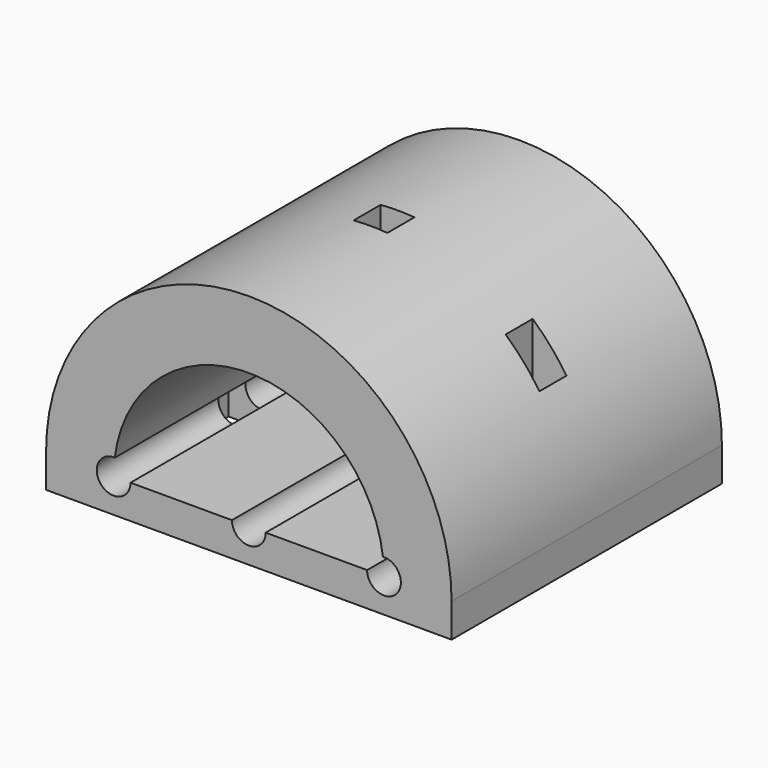
from build123d import *

# Parameters (mm, degrees)
F0_W     = 120
F0_H     = 10
F1_DEPTH = 100
F3_DEPTH = 100.001
F4_W     = 10
F4_H     = 10
F5_DEPTH = 70.001


with BuildPart() as f1:
    # F0 (on Front) → F1 (new body)
    with BuildSketch(Plane.XZ):
        with BuildLine():
            Line((-60, 0), (60, 0))
            ThreePointArc((60, 0), (0, 60), (-60, 0))
        make_face()
        with Locations((0, -5)):
            Rectangle(F0_W, F0_H)
    extrude(amount=F1_DEPTH)

    # F2 (on face) → F3 (cut, through all)
    with BuildSketch(Plane.XZ.offset(100)):
        with BuildLine():
            ThreePointArc((35, 0), (43.6443449343, -3.4232659844), (39.6875, 4.9902248196))
            ThreePointArc((39.6875, 4.9902248196), (0, 40), (-39.6875, 4.9902248196))
            ThreePointArc((-39.6875, 4.9902248196), (-43.6443449343, -3.4232659844), (-35, 0))
            Line((-35, 0), (-5, 0))
            ThreePointArc((-5, 0), (0, 5), (5, 0))
            Line((5, 0), (35, 0))
        make_face()
        with BuildLine():
            ThreePointArc((-5, 0), (0, -5), (5, 0))
            Line((5, 0), (-5, 0))
        make_face()
        with BuildLine():
            Line((-5, 0), (5, 0))
            ThreePointArc((5, 0), (0, 5), (-5, 0))
        make_face()
    extrude(amount=-F3_DEPTH, mode=Mode.SUBTRACT)

    # F4 (on face) → F5 (cut, through all)
    with BuildSketch(Plane(origin=(0, 0, -10), x_dir=(1, 0, 0), z_dir=(0, 0, -1))):
        with Locations((-45, 50)):
            Rectangle(F4_W, F4_H)
        with Locations((0, 50)):
            Rectangle(F4_W, F4_H)
        with Locations((45, 50)):
            Rectangle(F4_W, F4_H)
    extrude(amount=-F5_DEPTH, mode=Mode.SUBTRACT)


solid = f1.part
